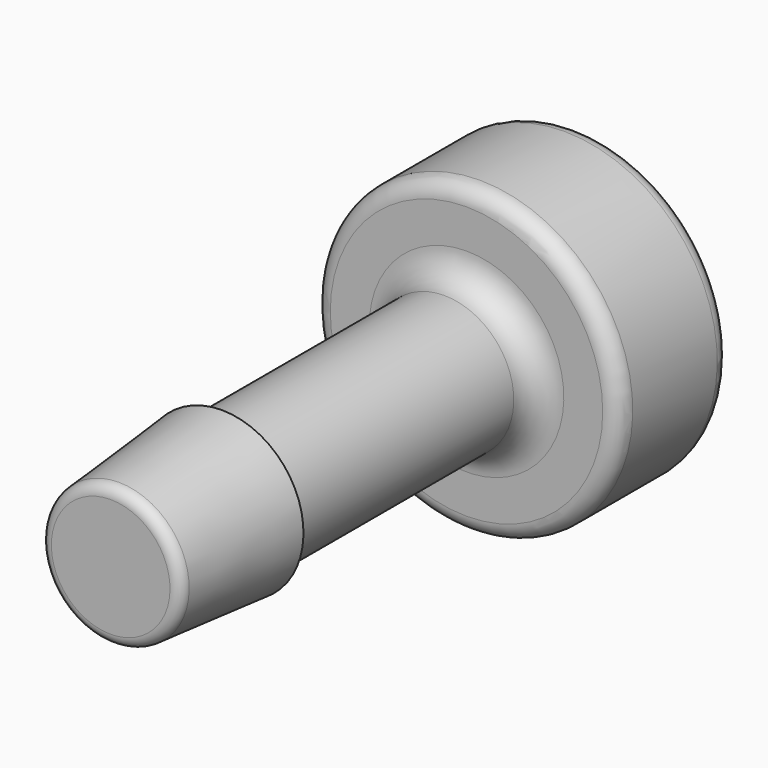
from build123d import *

# Parameters (mm, degrees)
FILLET_R    = 0.4
FILLET001_R = 1
FILLET002_R = 0.6


with BuildPart() as part:
    # Sketch → Revolution (revolve)
    with BuildSketch(Plane.YZ):
        Polygon((-10.5, 2.5), (-5.5, 2.935), (-5.5, 2.5), (5.5, 2.5), (5.5, 5.5), (10.5, 5.5), (10.5, 0), (-10.5, 0), align=None)
    revolve(axis=Axis((0, 0, 0), (0, 1, 0)))

    # Fillet
    fillet_edges = [part.edges().sort_by_distance(p)[0] for p in [
        (0, -10.5, -2.5),
    ]]
    fillet(fillet_edges, radius=FILLET_R)

    # Fillet001
    fillet001_edges = [part.edges().sort_by_distance(p)[0] for p in [
        (0, 5.5, -2.5),
    ]]
    fillet(fillet001_edges, radius=FILLET001_R)

    # Fillet002
    fillet002_edges = [part.edges().sort_by_distance(p)[0] for p in [
        (0, 5.5, -5.5),
        (0, 10.5, -5.5),
    ]]
    fillet(fillet002_edges, radius=FILLET002_R)


solid = part.part
